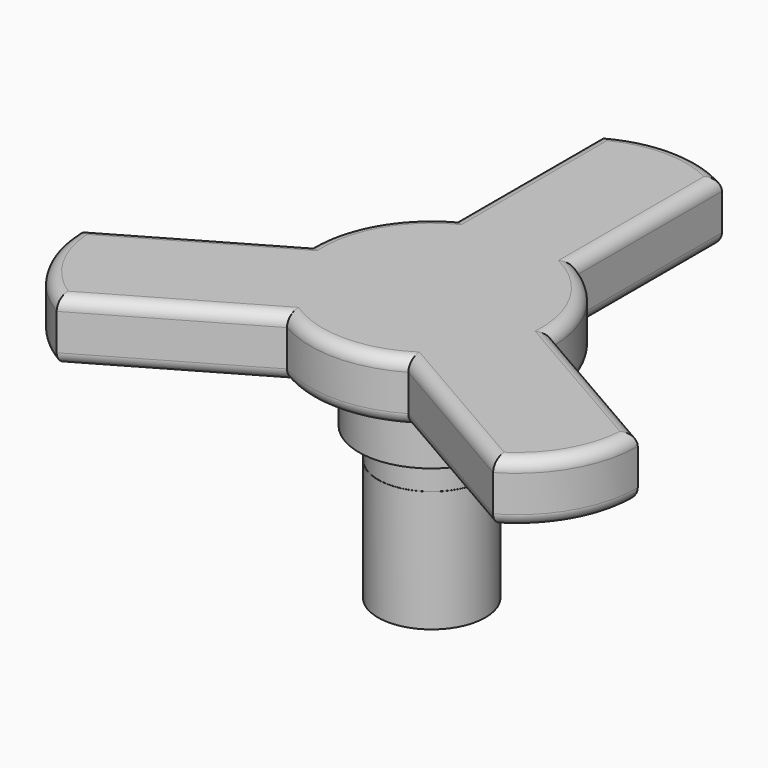
from build123d import *

# Parameters (mm, degrees)
F0_R      = 5.6261
F1_DEPTH  = 12.7
F2_R      = 5.6007
F3_DEPTH  = 9.525
F4_R      = 12.7
F4_R_2    = 5.6007
F6_DEPTH  = 6.35
F7_DEPTH  = 6.35
F8_R      = 7.62
F9_DEPTH  = 6.35
F10_DEPTH = 6.35
F11_R     = 1.27


with BuildPart() as f1:
    # F0 (on Top) → F1 (new body)
    with BuildSketch(Plane.XY):
        Circle(F0_R)
    extrude(amount=F1_DEPTH)

    # F2 (on face) → F3 (join)
    with BuildSketch(Plane.XY.offset(12.7)):
        Circle(F2_R)
    extrude(amount=F3_DEPTH)

    # F4 (on face) → F6 (join)
    with BuildSketch(Plane.XY.offset(22.225)):
        Circle(F4_R)
        Circle(F4_R_2, mode=Mode.SUBTRACT)
    extrude(amount=F6_DEPTH)

    # F7 (add): a face of the model
    f7_faces = [f1.faces().sort_by_distance(p)[0] for p in [
        (0, 0, 22.225),
    ]]
    extrude(f7_faces, amount=F7_DEPTH)

    # F8 (on face) → F9 (join)
    with BuildSketch(Plane(origin=(0, 0, 22.225), x_dir=(1, 0, 0), z_dir=(0, 0, -1))):
        Circle(F8_R)
    extrude(amount=F9_DEPTH)

    # F5 (on face) → F10 (join)
    with BuildSketch(Plane.XY.offset(22.225)):
        with BuildLine():
            ThreePointArc((-6.35, -10.9985226281), (-10.9985226281, -6.35), (-12.7, 0))
            Line((-12.7, 0), (-29.197504538, -9.524838686))
            ThreePointArc((-29.197504538, -9.524838686), (-27.4960271661, -15.874838686), (-22.847504538, -20.523361314))
            Line((-22.847504538, -20.523361314), (-6.35, -10.9985226281))
        make_face()
        with BuildLine():
            Line((-6.35, 30.0482), (-6.35, 10.9985226281))
            ThreePointArc((-6.35, 10.9985226281), (0, 12.7), (6.35, 10.9985226281))
            Line((6.35, 10.9985226281), (6.35, 30.0482))
            ThreePointArc((6.35, 30.0482), (0, 31.7496773719), (-6.35, 30.0482))
        make_face()
        with BuildLine():
            Line((29.197504538, -9.524838686), (12.7, 0))
            ThreePointArc((12.7, 0), (10.9985226281, -6.35), (6.35, -10.9985226281))
            Line((6.35, -10.9985226281), (22.847504538, -20.523361314))
            ThreePointArc((22.847504538, -20.523361314), (27.4960271661, -15.874838686), (29.197504538, -9.524838686))
        make_face()
    extrude(amount=F10_DEPTH)

    # F11
    f11_edges = [f1.edges().sort_by_distance(p)[0] for p in [
        (6.35, 20.523361, 28.575),
        (20.948752, -4.762419, 28.575),
        (27.496027, -15.874839, 28.575),
        (14.598752, -15.760942, 28.575),
        (0, 31.749677, 28.575),
        (-6.35, 20.523361, 28.575),
        (-20.948752, -4.762419, 28.575),
        (-14.598752, -15.760942, 28.575),
        (-27.496027, -15.874839, 28.575),
        (-27.496027, -15.874839, 22.225),
        (-20.948752, -4.762419, 22.225),
        (-6.35, 20.523361, 22.225),
        (0, 31.749677, 22.225),
        (6.35, 20.523361, 22.225),
        (20.948752, -4.762419, 22.225),
        (27.496027, -15.874839, 22.225),
        (14.598752, -15.760942, 22.225),
        (-14.598752, -15.760942, 22.225),
        (-10.998523, 6.35, 22.225),
        (0, -12.7, 22.225),
        (10.998523, 6.35, 22.225),
        (10.998523, 6.35, 28.575),
        (-10.998523, 6.35, 28.575),
        (0, -12.7, 28.575),
    ]]
    fillet(f11_edges, radius=F11_R)


solid = f1.part
